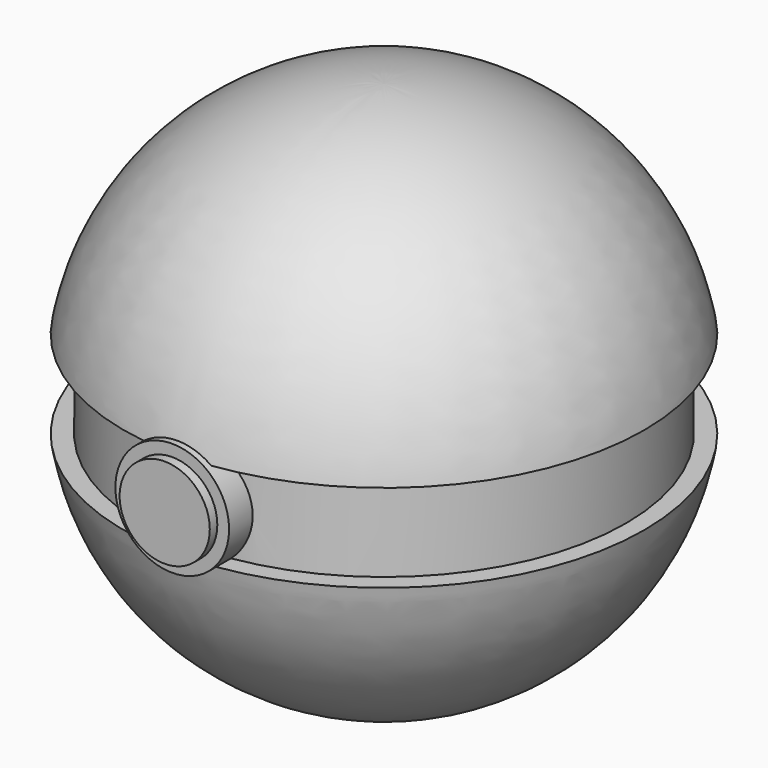
from build123d import *

# Parameters (mm, degrees)
F2_R     = 16.410966
F3_DEPTH = 76.39986
F4_R     = 13.012673
F5_DEPTH = 2.71697


with BuildPart() as f1:
    # F0 (on Front) → F1 (revolve)
    with BuildSketch(Plane.XZ):
        with BuildLine():
            ThreePointArc((75.134213, 88.9), (49.186888, 134.398711), (0, 152.4))
            Line((0, 152.4), (0, 0))
            ThreePointArc((0, 0), (49.186888, 18.001289), (75.134213, 63.5))
            Line((75.134213, 63.5), (69.85, 63.5))
            Line((69.85, 63.5), (69.85, 88.9))
            Line((69.85, 88.9), (75.134213, 88.9))
        make_face()
    revolve(axis=Axis((0, 0, 76.2), (0, 0, -1)))

    # F2 (on Front) → F3 (join)
    with BuildSketch(Plane.XZ):
        with Locations((0, 75.675853)):
            Circle(F2_R)
    extrude(amount=F3_DEPTH)

    # F4 (on face) → F5 (join)
    with BuildSketch(Plane.XZ.offset(76.39986)):
        with Locations((0, 75.675853)):
            Circle(F4_R)
    extrude(amount=F5_DEPTH)


solid = f1.part
